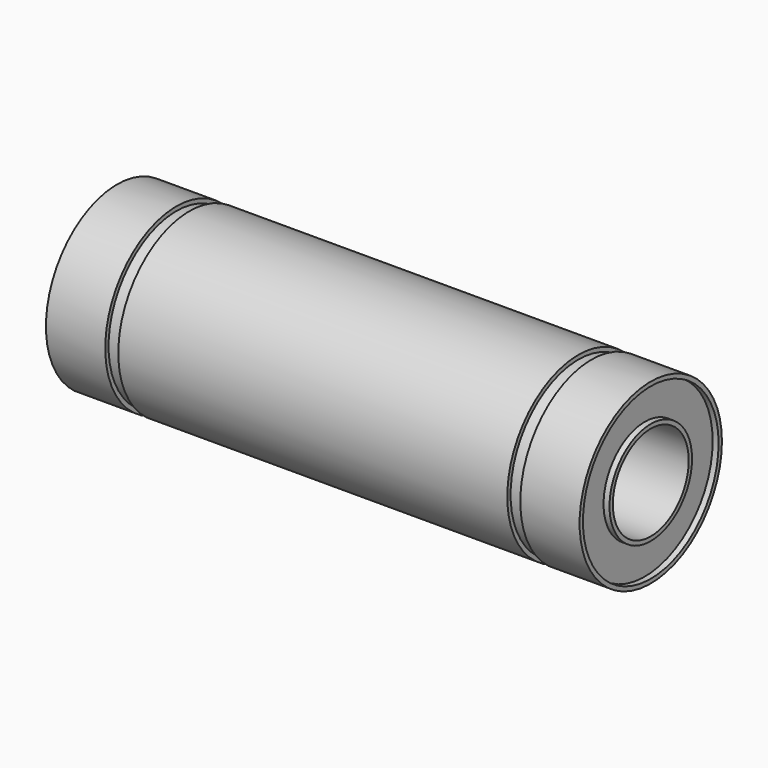
from build123d import *

# Parameters (mm, degrees)
F0_R      = 7.5
F0_R_2    = 4
F1_DEPTH  = 22.5
F4_R      = 8
F4_R_2    = 7.15
F5_DEPTH  = 1.1
F6_R      = 8
F6_R_2    = 7.15
F7_DEPTH  = 1.1
F8_R      = 7.15
F8_R_2    = 4.35
F9_DEPTH  = 0.5
F11_R     = 7.15
F11_R_2   = 4.35
F12_DEPTH = 0.5


with BuildPart() as f1:
    # F0 (on Right) → F1 (new body, symmetric)
    with BuildSketch(Plane.YZ):
        Circle(F0_R)
        Circle(F0_R_2, mode=Mode.SUBTRACT)
    extrude(amount=F1_DEPTH, both=True)

    # F4 (on offset) → F5 (cut)
    with BuildSketch(Plane.YZ.offset(-17.5)):
        Circle(F4_R)
        Circle(F4_R_2, mode=Mode.SUBTRACT)
    extrude(amount=F5_DEPTH, mode=Mode.SUBTRACT)

    # F6 (on offset) → F7 (cut)
    with BuildSketch(Plane.YZ.offset(17.5)):
        Circle(F6_R)
        Circle(F6_R_2, mode=Mode.SUBTRACT)
    extrude(amount=-F7_DEPTH, mode=Mode.SUBTRACT)

    # F8 (on face) → F9 (cut)
    with BuildSketch(Plane.YZ.offset(22.5)):
        Circle(F8_R)
        Circle(F8_R_2, mode=Mode.SUBTRACT)
    extrude(amount=-F9_DEPTH, mode=Mode.SUBTRACT)

    # F11 (on face) → F12 (cut)
    with BuildSketch(Plane(origin=(-22.5, 0, 0), x_dir=(0, -1, 0), z_dir=(-1, 0, 0))):
        Circle(F11_R)
        Circle(F11_R_2, mode=Mode.SUBTRACT)
    extrude(amount=-F12_DEPTH, mode=Mode.SUBTRACT)


solid = f1.part
